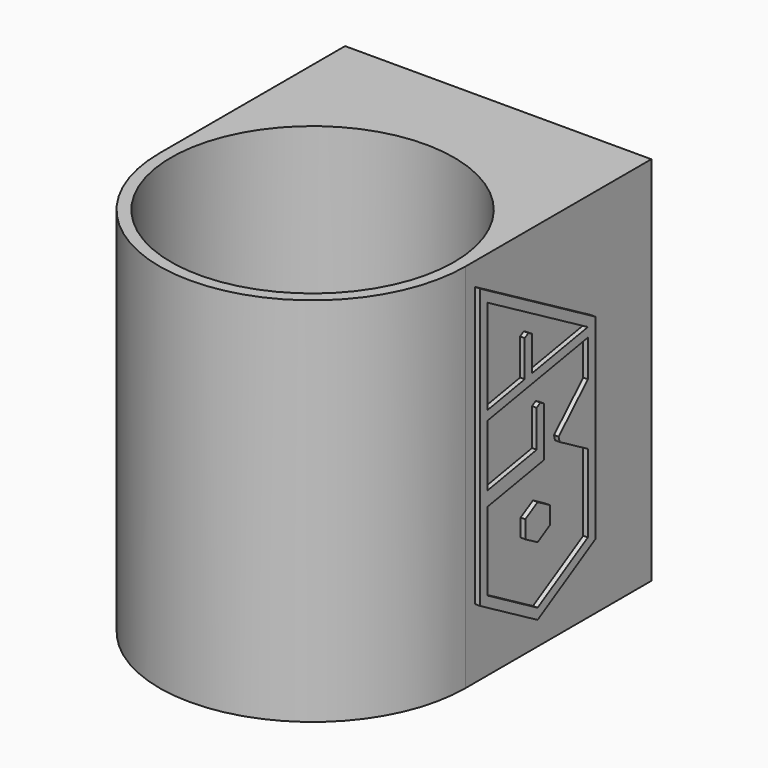
from build123d import *

# Parameters (mm, degrees)
F5_R     = 30.5
F5_W     = 20
F5_H     = 15
F0_DEPTH = 80
F2_DEPTH = 1
F4_DEPTH = 1


with BuildPart() as f0:
    # F5 (on Top) → F0 (new body)
    with BuildSketch(Plane.XY):
        with BuildLine():
            ThreePointArc((-99, 0), (-66, 33), (-33, 0))
            Line((-33, 0), (-33, 50))
            Line((-33, 50), (-79, 50))
            Line((-79, 50), (-79, 35))
            Line((-79, 35), (-99, 35))
            Line((-99, 35), (-99, 0))
        make_face()
        with BuildLine():
            ThreePointArc((-99, 0), (-66, -33), (-33, 0))
            ThreePointArc((-33, 0), (-66, 33), (-99, 0))
        make_face()
        with Locations((-66, 0)):
            Circle(F5_R, mode=Mode.SUBTRACT)
        with Locations((-89, 42.5)):
            Rectangle(F5_W, F5_H)
    extrude(amount=F0_DEPTH)

    # F1 (on face) → F2 (join)
    with BuildSketch(Plane.YZ.offset(-33)):
        Polygon((33.663927, 32.829516), (33.663927, 57.098736), (2.563593, 75.054523), (2.563593, 51.653499), (2.563593, 14.865377), (18.11376, 5.887484), (19.11376, 6.464834), (33.663927, 14.865377), (33.663927, 15.595676), align=None)
        Polygon((4.563593, 51.165515), (4.563593, 71.590421), (31.663927, 55.944036), (31.663927, 53.944036), (31.663927, 46.022312), (31.663927, 43.27108), (31.663927, 32.829516), (31.663927, 16.020077), (18.11376, 8.196885), (4.563593, 16.020077), (4.563593, 32.829516), (4.563593, 35.912469), (4.563593, 36.259414), (4.563593, 38.259414), (4.563593, 49.165515), align=None, mode=Mode.SUBTRACT)
        Polygon((14.651485, 52.944283), (4.563593, 51.165515), (4.563593, 49.165515), (31.663927, 53.944036), (31.663927, 55.944036), (16.651485, 53.296937), align=None)
        Polygon((14.651485, 60.74453), (14.651485, 52.944283), (16.651485, 53.296937), (16.651485, 60.74453), (15.651485, 61.32188), align=None)
        Polygon((17.873782, 38.259414), (4.563593, 35.912469), (4.563593, 32.829516), (19.873782, 35.529115), (19.873782, 46.225284), (18.873782, 46.802635), (17.873782, 46.225284), align=None)
        Polygon((31.663927, 43.27108), (31.663927, 46.022312), (23.782982, 38.337872), (24.068827, 37.214549), (25.17923, 36.905919), align=None)
        Polygon((31.663927, 32.829516), (31.663927, 43.27108), (25.17923, 36.905919), (24.068827, 37.214549), align=None)
        Polygon((21.413582, 22.519643), (21.413582, 26.32995), (18.11376, 28.235103), (14.813938, 26.32995), (14.813938, 22.519643), (18.11376, 20.61449), align=None)
    extrude(amount=F2_DEPTH)

    # F3 (on face) → F4 (join)
    with BuildSketch(Plane(origin=(-99, 0, 0), x_dir=(0, -1, 0), z_dir=(-1, 0, 0))):
        Polygon((-33.316614, 46.639109), (-33.316614, 22.369889), (-2.216279, 4.414102), (-2.216279, 27.815126), (-2.216279, 64.603248), (-17.766446, 73.581141), (-18.766446, 73.003791), (-33.316614, 64.603248), (-33.316614, 63.872949), align=None)
        Polygon((-4.216279, 28.303109), (-4.216279, 7.878204), (-31.316614, 23.524589), (-31.316614, 25.524589), (-31.316614, 33.446313), (-31.316614, 36.197545), (-31.316614, 46.639109), (-31.316614, 63.448548), (-17.766446, 71.27174), (-4.216279, 63.448548), (-4.216279, 46.639109), (-4.216279, 43.556156), (-4.216279, 43.209211), (-4.216279, 41.209211), (-4.216279, 30.303109), align=None, mode=Mode.SUBTRACT)
        Polygon((-17.526468, 41.209211), (-4.216279, 43.556156), (-4.216279, 46.639109), (-19.526468, 43.939509), (-19.526468, 33.243341), (-18.526468, 32.66599), (-17.526468, 33.243341), align=None)
        Polygon((-31.316614, 36.197545), (-31.316614, 33.446313), (-23.435668, 41.130753), (-23.721513, 42.254076), (-24.831917, 42.562706), align=None)
        Polygon((-31.316614, 46.639109), (-31.316614, 36.197545), (-24.831917, 42.562706), (-23.721513, 42.254076), align=None)
        Polygon((-21.066269, 56.948982), (-21.066269, 53.138675), (-17.766446, 51.233521), (-14.466624, 53.138675), (-14.466624, 56.948982), (-17.766446, 58.854135), align=None)
        Polygon((-14.304171, 26.524342), (-4.216279, 28.303109), (-4.216279, 30.303109), (-31.316614, 25.524589), (-31.316614, 23.524589), (-16.304171, 26.171688), align=None)
        Polygon((-14.304171, 18.724095), (-14.304171, 26.524342), (-16.304171, 26.171688), (-16.304171, 18.724095), (-15.304171, 18.146745), align=None)
    extrude(amount=F4_DEPTH)


solid = f0.part
